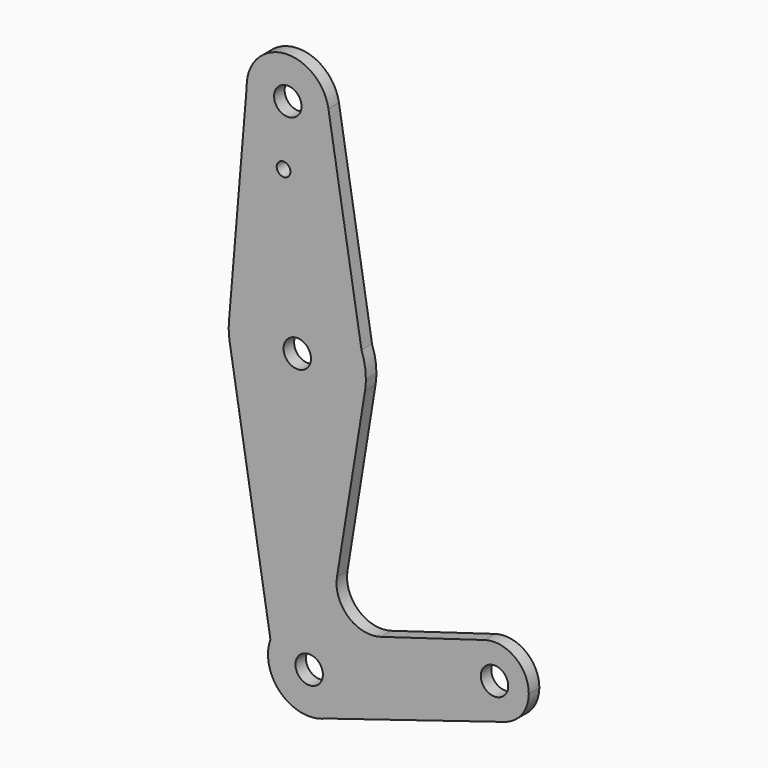
from build123d import *

# Parameters (mm, degrees)
F0_R     = 3.175
F0_R_2   = 1.5875
F1_DEPTH = 3.048


with BuildPart() as f1:
    # F0 (on Front) → F1 (new body)
    with BuildSketch(Plane.XZ):
        with BuildLine():
            ThreePointArc((-10.983785, 337.528277), (-1.333628, 328.261386), (8.06274, 337.785517))
            ThreePointArc((8.06274, 337.785517), (8.031247, 338.559446), (7.936973, 339.328257))
            ThreePointArc((7.936973, 339.328257), (-2.364324, 347.267706), (-10.983785, 337.528277))
        make_face()
        with Locations((-1.46226, 337.785517)):
            Circle(F0_R, mode=Mode.SUBTRACT)
        with BuildLine():
            ThreePointArc((7.936973, 339.328257), (8.031247, 338.559446), (8.06274, 337.785517))
            ThreePointArc((8.06274, 337.785517), (-1.333628, 328.261386), (-10.983785, 337.528277))
            Line((-10.983785, 337.528277), (-15.089364, 288.414729))
            ThreePointArc((-15.089364, 288.414729), (-1.445585, 302.817446), (15.596678, 292.661058))
            Line((15.596678, 292.661058), (7.936973, 339.328257))
        make_face()
        with Locations((-2.438411, 323.617493)):
            Circle(F0_R_2, mode=Mode.SUBTRACT)
        with BuildLine():
            Line((16.596792, 286.567805), (15.596678, 292.661058))
            ThreePointArc((15.596678, 292.661058), (-1.445585, 302.817446), (-15.089364, 288.414729))
            ThreePointArc((-15.089364, 288.414729), (-15.132194, 286.466288), (-14.935949, 284.527282))
            ThreePointArc((-14.935949, 284.527282), (0.74282, 271.217298), (16.400843, 284.551682))
            ThreePointArc((16.400843, 284.551682), (16.531007, 285.556615), (16.596792, 286.567805))
        make_face()
        with Locations((0.730459, 287.092293)):
            Circle(F0_R, mode=Mode.SUBTRACT)
        with BuildLine():
            ThreePointArc((16.605459, 287.092293), (16.351228, 289.921992), (15.596678, 292.661058))
            Line((15.596678, 292.661058), (16.596792, 286.567805))
            ThreePointArc((16.596792, 286.567805), (16.603292, 286.830013), (16.605459, 287.092293))
        make_face()
        with BuildLine():
            ThreePointArc((16.400843, 284.551682), (0.74282, 271.217298), (-14.935949, 284.527282))
            Line((-14.935949, 284.527282), (-5.486656, 226.813497))
            ThreePointArc((-5.486656, 226.813497), (5.111994, 232.975941), (13.00213, 223.592293))
            ThreePointArc((13.00213, 223.592293), (11.458879, 218.394475), (7.329204, 214.880969))
            Line((7.329204, 214.880969), (48.715561, 227.648994))
            ThreePointArc((48.715561, 227.648994), (38.780004, 232.929236), (44.106585, 242.840027))
            Line((44.106585, 242.840027), (20.03587, 235.659526))
            ThreePointArc((20.03587, 235.659526), (12.516138, 237.305221), (9.915494, 244.550312))
            Line((9.915494, 244.550312), (16.400843, 284.551682))
        make_face()
        with BuildLine():
            ThreePointArc((13.00213, 223.592293), (5.111994, 232.975941), (-5.486656, 226.813497))
            ThreePointArc((-5.486656, 226.813497), (-3.783524, 217.427187), (5.202498, 214.224864))
            Line((5.202498, 214.224864), (7.329204, 214.880969))
            ThreePointArc((7.329204, 214.880969), (11.458879, 218.394475), (13.00213, 223.592293))
        make_face()
        with Locations((3.47713, 223.592293)):
            Circle(F0_R, mode=Mode.SUBTRACT)
        with BuildLine():
            Line((7.329204, 214.880969), (5.202498, 214.224864))
            ThreePointArc((5.202498, 214.224864), (6.28508, 214.490587), (7.329204, 214.880969))
        make_face()
        with BuildLine():
            ThreePointArc((54.313103, 235.233749), (51.118681, 241.598269), (44.106585, 242.840027))
            ThreePointArc((44.106585, 242.840027), (38.780004, 232.929236), (48.715561, 227.648994))
            ThreePointArc((48.715561, 227.648994), (52.762204, 230.520444), (54.313103, 235.233749))
        make_face()
        with Locations((46.375603, 235.233749)):
            Circle(F0_R, mode=Mode.SUBTRACT)
    extrude(amount=F1_DEPTH)


solid = f1.part
